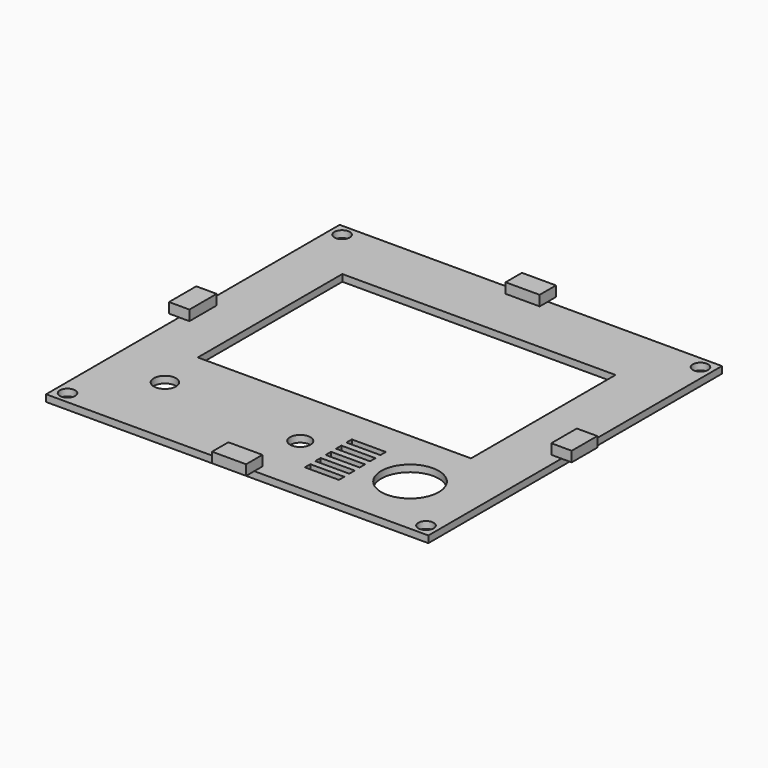
from build123d import *

# Parameters (mm, degrees)
F0_W     = 112.25
F0_H     = 107.75
F0_R     = 2.25
F0_R_2   = 3.275
F0_W_2   = 10
F0_H_2   = 2
F0_R_3   = 3
F0_R_4   = 8.45
F0_W_3   = 80.22
F0_H_3   = 53.05
F1_DEPTH = 2
F2_W     = 6
F2_H     = 9.375001
F2_H_2   = 10
F2_W_2   = 10
F2_H_3   = 6
F3_DEPTH = 3


with BuildPart() as f1:
    # F0 (on Top) → F1 (new body)
    with BuildSketch(Plane.XY):
        with Locations((56.125, 53.875)):
            Rectangle(F0_W, F0_H)
        with Locations((3.5, 3.5)):
            Circle(F0_R, mode=Mode.SUBTRACT)
        with Locations((17.59, 21.63)):
            Circle(F0_R_2, mode=Mode.SUBTRACT)
        with Locations((74, 9.726001)):
            Rectangle(F0_W_2, F0_H_2, mode=Mode.SUBTRACT)
        with Locations((60, 18.3)):
            Circle(F0_R_3, mode=Mode.SUBTRACT)
        with Locations((73.933571, 13.617334)):
            Rectangle(F0_W_2, F0_H_2, mode=Mode.SUBTRACT)
        with Locations((73.867143, 17.508667)):
            Rectangle(F0_W_2, F0_H_2, mode=Mode.SUBTRACT)
        with Locations((73.800714, 21.4)):
            Rectangle(F0_W_2, F0_H_2, mode=Mode.SUBTRACT)
        with Locations((73.734285, 25.291333)):
            Rectangle(F0_W_2, F0_H_2, mode=Mode.SUBTRACT)
        with Locations((108.75, 3.5)):
            Circle(F0_R, mode=Mode.SUBTRACT)
        with Locations((92.23, 18.3)):
            Circle(F0_R_4, mode=Mode.SUBTRACT)
        with Locations((55.86, 62.525)):
            Rectangle(F0_W_3, F0_H_3, mode=Mode.SUBTRACT)
        with Locations((3.5, 104.25)):
            Circle(F0_R, mode=Mode.SUBTRACT)
        with Locations((108.75, 104.25)):
            Circle(F0_R, mode=Mode.SUBTRACT)
    extrude(amount=F1_DEPTH)

    # F2 (on face) → F3 (join)
    with BuildSketch(Plane.XY.offset(2)):
        with Locations((112.25, 53.5575)):
            Rectangle(F2_W, F2_H)
        with Locations((0, 53.87)):
            Rectangle(F2_W, F2_H_2)
        with Locations((56.13, 107.75)):
            Rectangle(F2_W_2, F2_H_3)
        with Locations((56.13, 0)):
            Rectangle(F2_W_2, F2_H_3)
    extrude(amount=F3_DEPTH)


solid = f1.part
